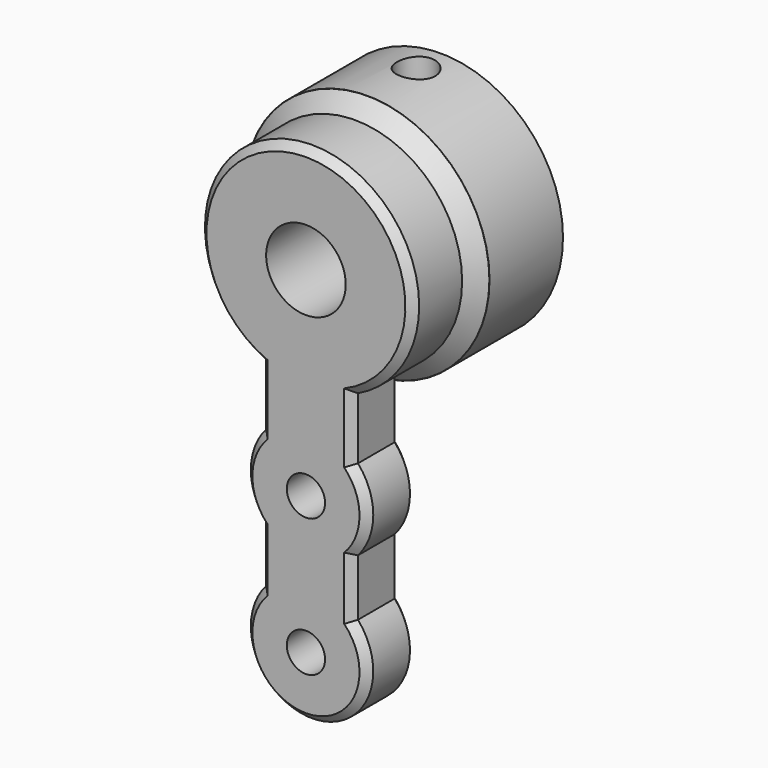
from build123d import *

# Parameters (mm, degrees)
CYLINDER887_R          = 1.25
CYLINDER887_DEPTH      = 7
CYLINDER885_R          = 2.6
CYLINDER885_DEPTH      = 11
CYLINDER885_ROLL_ANGLE = 90
CYLINDER883_R          = 1.25
CYLINDER883_DEPTH      = 4
CYLINDER883_ROLL_ANGLE = 90
CYLINDER884_R          = 5.6
CYLINDER884_DEPTH      = 4
CYLINDER884_ROLL_ANGLE = 90
CYLINDER882_R          = 1.25
CYLINDER882_DEPTH      = 4
CYLINDER882_ROLL_ANGLE = 90
BOX549_W               = 6
BOX549_H               = 4
BOX549_DEPTH           = 22
CYLINDER880_R          = 4
CYLINDER880_DEPTH      = 4
CYLINDER880_ROLL_ANGLE = 90
CYLINDER878_R          = 7
CYLINDER878_DEPTH      = 6
CYLINDER878_ROLL_ANGLE = 90
CYLINDER881_R          = 4
CYLINDER881_DEPTH      = 4
CYLINDER881_ROLL_ANGLE = 90
CYLINDER886_R          = 8
CYLINDER886_DEPTH      = 6
CYLINDER886_ROLL_ANGLE = 90
CHAMFER103_SIZE        = 0.99
CHAMFER104_SIZE        = 0.5


with BuildPart() as cylinder1047:
    # Cylinder887 → Cylinder887 (new body)
    with BuildSketch(Plane(origin=(37, 37.75, -8), x_dir=(1, 0, 0), z_dir=(0, 0, 1))):
        Circle(CYLINDER887_R)
    extrude(amount=CYLINDER887_DEPTH)


with BuildPart() as cylinder1045:
    # Cylinder885 → Cylinder885 (new body)
    with BuildSketch(Plane.XY):
        Circle(CYLINDER885_R)
    extrude(amount=CYLINDER885_DEPTH)


with BuildPart() as cylinder1045_1:
    # Cylinder885 roll: moved
    add(cylinder1045.part.rotate(Axis((0, 0, 0), (1, 0, 0)), CYLINDER885_ROLL_ANGLE))


with BuildPart() as cylinder1045_2:
    # Cylinder885 placement: moved
    add(cylinder1045_1.part.moved(Location((37, 39.75, -11))))


with BuildPart() as cylinder1043:
    # Cylinder883 → Cylinder883 (new body)
    with BuildSketch(Plane.XY):
        Circle(CYLINDER883_R)
    extrude(amount=CYLINDER883_DEPTH)


with BuildPart() as cylinder1043_1:
    # Cylinder883 roll: moved
    add(cylinder1043.part.rotate(Axis((0, 0, 0), (1, 0, 0)), CYLINDER883_ROLL_ANGLE))


with BuildPart() as cylinder1043_2:
    # Cylinder883 placement: moved
    add(cylinder1043_1.part.moved(Location((37, 32.75, -33))))


with BuildPart() as cylinder1044:
    # Cylinder884 → Cylinder884 (new body)
    with BuildSketch(Plane.XY):
        Circle(CYLINDER884_R)
    extrude(amount=CYLINDER884_DEPTH)


with BuildPart() as cylinder1044_1:
    # Cylinder884 roll: moved
    add(cylinder1044.part.rotate(Axis((0, 0, 0), (1, 0, 0)), CYLINDER884_ROLL_ANGLE))


with BuildPart() as cylinder1044_2:
    # Cylinder884 placement: moved
    add(cylinder1044_1.part.moved(Location((37, 39.75, -11))))


with BuildPart() as fusion566:
    # Cylinder882 → Cylinder882 (new body)
    with BuildSketch(Plane.XY):
        Circle(CYLINDER882_R)
    extrude(amount=CYLINDER882_DEPTH)


with BuildPart() as fusion566_1:
    # Cylinder882 roll: moved
    add(fusion566.part.rotate(Axis((0, 0, 0), (1, 0, 0)), CYLINDER882_ROLL_ANGLE))


with BuildPart() as fusion566_2:
    # Cylinder882 placement: moved
    add(fusion566_1.part.moved(Location((37, 32.75, -24))))

    # Fusion566: union Cylinder1045, Cylinder1043, Cylinder1044
    add(cylinder1045_2.part)
    add(cylinder1043_2.part)
    add(cylinder1044_2.part)


with BuildPart() as cube740:
    # Box549 → Box549 (new body)
    with BuildSketch(Plane(origin=(34, 33.75, -33), x_dir=(1, 0, 0), z_dir=(0, 0, 1))):
        with Locations((3, 2)):
            Rectangle(BOX549_W, BOX549_H)
    extrude(amount=BOX549_DEPTH)


with BuildPart() as cylinder1040:
    # Cylinder880 → Cylinder880 (new body)
    with BuildSketch(Plane.XY):
        Circle(CYLINDER880_R)
    extrude(amount=CYLINDER880_DEPTH)


with BuildPart() as cylinder1040_1:
    # Cylinder880 roll: moved
    add(cylinder1040.part.rotate(Axis((0, 0, 0), (1, 0, 0)), CYLINDER880_ROLL_ANGLE))


with BuildPart() as cylinder1040_2:
    # Cylinder880 placement: moved
    add(cylinder1040_1.part.moved(Location((37, 37.75, -33))))


with BuildPart() as cylinder1039:
    # Cylinder878 → Cylinder878 (new body)
    with BuildSketch(Plane.XY):
        Circle(CYLINDER878_R)
    extrude(amount=CYLINDER878_DEPTH)


with BuildPart() as cylinder1039_1:
    # Cylinder878 roll: moved
    add(cylinder1039.part.rotate(Axis((0, 0, 0), (1, 0, 0)), CYLINDER878_ROLL_ANGLE))


with BuildPart() as cylinder1039_2:
    # Cylinder878 placement: moved
    add(cylinder1039_1.part.moved(Location((37, 39.75, -11))))


with BuildPart() as fusion564:
    # Cylinder881 → Cylinder881 (new body)
    with BuildSketch(Plane.XY):
        Circle(CYLINDER881_R)
    extrude(amount=CYLINDER881_DEPTH)


with BuildPart() as fusion564_1:
    # Cylinder881 roll: moved
    add(fusion564.part.rotate(Axis((0, 0, 0), (1, 0, 0)), CYLINDER881_ROLL_ANGLE))


with BuildPart() as fusion564_2:
    # Cylinder881 placement: moved
    add(fusion564_1.part.moved(Location((37, 37.75, -24))))

    # Fusion564: union Cube740, Cylinder1040, Cylinder1039
    add(cube740.part)
    add(cylinder1040_2.part)
    add(cylinder1039_2.part)


with BuildPart() as fusion564_3:
    # Fusion564 placement: moved
    add(fusion564_2.part.moved(Location((0, -5, 0))))


with BuildPart() as front_axle_steering_arm_int_servo:
    # Cylinder886 → Cylinder886 (new body)
    with BuildSketch(Plane.XY):
        Circle(CYLINDER886_R)
    extrude(amount=CYLINDER886_DEPTH)


with BuildPart() as front_axle_steering_arm_int_servo_1:
    # Cylinder886 roll: moved
    add(front_axle_steering_arm_int_servo.part.rotate(Axis((0, 0, 0), (1, 0, 0)), CYLINDER886_ROLL_ANGLE))


with BuildPart() as front_axle_steering_arm_int_servo_2:
    # Cylinder886 placement: moved
    add(front_axle_steering_arm_int_servo_1.part.moved(Location((37, 39.75, -11))))

    # Fusion565: union Fusion564
    add(fusion564_3.part)

    # Cut671: cut Fusion566
    add(fusion566_2.part, mode=Mode.SUBTRACT)

    # Chamfer103
    chamfer103_edges = [front_axle_steering_arm_int_servo_2.edges().sort_by_distance(p)[0] for p in [
        (30, 33.75, -11),
    ]]
    chamfer(chamfer103_edges, length=CHAMFER103_SIZE)

    # Cut672: cut Cylinder1047
    add(cylinder1047.part, mode=Mode.SUBTRACT)

    # Chamfer104
    chamfer104_edges = [front_axle_steering_arm_int_servo_2.edges().sort_by_distance(p)[0] for p in [
        (33.258343, 28.75, -5.08392),
        (42.91608, 28.75, -14.741657),
        (40, 28.75, -19.339402),
        (40.741657, 28.75, -22.585786),
        (34, 28.75, -19.339402),
        (40.741657, 28.75, -25.414214),
        (33, 28.75, -24),
        (40, 28.75, -28.5),
        (34, 28.75, -28.5),
        (40.741657, 28.75, -31.585786),
        (35.585786, 28.75, -36.741657),
        (34, 32.75, -19.339402),
        (40, 32.75, -19.339402),
        (40.741657, 32.75, -22.585786),
        (40.741657, 32.75, -25.414214),
        (40, 32.75, -28.5),
        (33, 32.75, -24),
        (40.741657, 32.75, -31.585786),
        (34, 32.75, -28.5),
        (35.585786, 32.75, -36.741657),
    ]]
    chamfer(chamfer104_edges, length=CHAMFER104_SIZE)


solid = front_axle_steering_arm_int_servo_2.part
